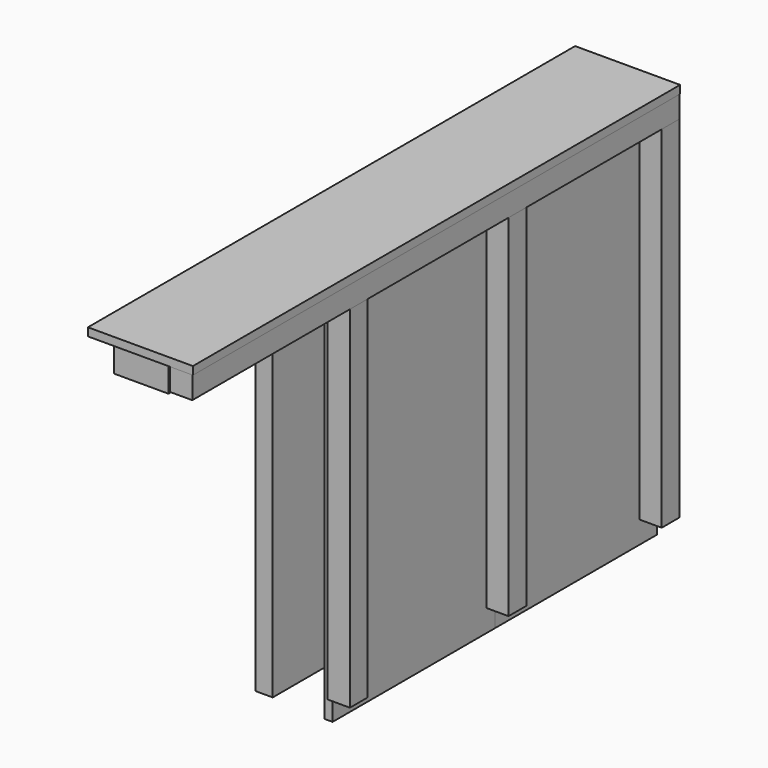
from build123d import *

# Parameters (mm, degrees)
PAD_DEPTH               = 160
SKETCH001_W             = 44
SKETCH001_H             = 24
PAD001_DEPTH            = 480
PAD003_DEPTH            = 6.5
PAD002_DEPTH            = 493
SKETCH004_W             = 6.5
SKETCH004_H             = 320
PAD004_DEPTH            = 164.33
BODY010_PLACEMENT_ANGLE = 180
SKETCH005_W             = 18
SKETCH005_H             = 18
PAD005_DEPTH            = 493
SKETCH006_W             = 18
SKETCH006_H             = 284
PAD006_DEPTH            = 18


with BuildPart() as body:
    # Sketch → Pad (new body)
    with BuildSketch(Plane.XZ):
        Polygon((0, 0), (14, 0), (14, 24), (14, 296), (14, 320), (0, 320), align=None)
    extrude(amount=PAD_DEPTH)


with BuildPart() as body_1:
    # Body placement: moved
    add(body.part.moved(Location((0, 0, -0.5))))


with BuildPart() as body001:
    # Body001 base: copy of Body
    add(body_1.part)


with BuildPart() as body001_1:
    # Clone placement: moved
    add(body001.part.moved(Location((0, 0, 0.5))))


with BuildPart() as body001_2:
    # Body001 placement: moved
    add(body001_1.part.moved(Location((0, 160, -0.5))))


with BuildPart() as body002:
    # Body002 base: copy of Body
    add(body_1.part)


with BuildPart() as body002_1:
    # Clone001 placement: moved
    add(body002.part.moved(Location((0, 0, 0.5))))


with BuildPart() as body002_2:
    # Body002 placement: moved
    add(body002_1.part.moved(Location((0, 320, -0.5))))


with BuildPart() as topedge:
    # Sketch001 → Pad001 (new body)
    with BuildSketch(Plane.XZ):
        with Locations((22, 12)):
            Rectangle(SKETCH001_W, SKETCH001_H)
    extrude(amount=PAD001_DEPTH)


with BuildPart() as topedge_1:
    # Body003 placement: moved
    add(topedge.part.moved(Location((14, 319.5, -0.5))))


with BuildPart() as topedge_2:
    # Clone002 placement: moved
    add(topedge_1.part.moved(Location((0, -486, 296.5))))


with BuildPart() as topedge_3:
    # Body004 placement: moved
    add(topedge_2.part.moved(Location((0, 486, -0.5))))


with BuildPart() as leftside:
    # Sketch003 → Pad003 (new body)
    with BuildSketch(Plane.XZ):
        Polygon((60, 0), (60, 320), (16, 320), (2, 320), (0, 320), (0, 0), (2, 0), (16, 0), align=None)
    extrude(amount=PAD003_DEPTH)


with BuildPart() as leftside_1:
    # Body006 placement: moved
    add(leftside.part.moved(Location((-2, -160.5, -0.5))))


with BuildPart() as leftside_2:
    # Clone003 placement: moved
    add(leftside_1.part.moved(Location((0, 0.5, 0.5))))


with BuildPart() as leftside_3:
    # Body007 placement: moved
    add(leftside_2.part.moved(Location((0, 486, -0.5))))


with BuildPart() as top:
    # Sketch002 → Pad002 (new body)
    with BuildSketch(Plane.XZ):
        Polygon((85, -6.5), (85, 0), (84.5, 0), (66.5, 0), (60, 0), (42, 0), (16, 0), (0, 0), (0, -6.5), (16, -6.5), (42, -6.5), (60, -6.5), (66.5, -6.5), (84.5, -6.5), align=None)
    extrude(amount=PAD002_DEPTH)


with BuildPart() as top_1:
    # Body005 placement: moved
    add(top.part.moved(Location((-2, 326, -0.5))))


with BuildPart() as top_2:
    # Clone004 placement: moved
    add(top_1.part.moved(Location((0, 0, 0.5))))


with BuildPart() as top_3:
    # Body008 placement: moved
    add(top_2.part.moved(Location((0, 0, 326))))


with BuildPart() as body009:
    # Sketch004 → Pad004 (new body)
    with BuildSketch(Plane.XZ):
        with Locations((3.25, 160)):
            Rectangle(SKETCH004_W, SKETCH004_H)
    extrude(amount=PAD004_DEPTH)


with BuildPart() as body009_1:
    # Body009 placement: moved
    add(body009.part.moved(Location((58, -2.5, -0.5))))


with BuildPart() as body010:
    # Body010 base: copy of Body009
    add(body009_1.part)


with BuildPart() as body010_1:
    # Clone005 placement: moved
    add(body010.part.moved(Location((0, -3.7, 0.5))))


with BuildPart() as body010_2:
    # Body010 placement: moved
    add(body010_1.part.moved(Location((122.5, 168, 319.5))).rotate(Axis((122.5, 168, 319.5), (0, -1, 0)), BODY010_PLACEMENT_ANGLE))


with BuildPart() as body011:
    # Body011 base: copy of Body009
    add(body009_1.part)


with BuildPart() as body011_1:
    # Clone006 placement: moved
    add(body011.part.moved(Location((0, -3.5, 0.5))))


with BuildPart() as body011_2:
    # Body011 placement: moved
    add(body011_1.part.moved(Location((0, 332, -0.5))))


with BuildPart() as topbackedge:
    # Sketch005 → Pad005 (new body)
    with BuildSketch(Plane.XZ):
        with Locations((9, 9)):
            Rectangle(SKETCH005_W, SKETCH005_H)
    extrude(amount=PAD005_DEPTH)


with BuildPart() as topbackedge_1:
    # Body012 placement: moved
    add(topbackedge.part.moved(Location((64.5, 326, -0.5))))


with BuildPart() as topbackedge_2:
    # Clone007 placement: moved
    add(topbackedge_1.part.moved(Location((0, 0, 0.5))))


with BuildPart() as topbackedge_3:
    # Body013 placement: moved
    add(topbackedge_2.part.moved(Location((0, 0, 301.5))))


with BuildPart() as rightbackedge:
    # Sketch006 → Pad006 (new body)
    with BuildSketch(Plane.XZ):
        with Locations((9, 142)):
            Rectangle(SKETCH006_W, SKETCH006_H)
    extrude(amount=PAD006_DEPTH)


with BuildPart() as rightbackedge_1:
    # Body014 placement: moved
    add(rightbackedge.part.moved(Location((64.5, -149, 17.5))))


with BuildPart() as leftbackedge:
    # Body015 base: copy of rightBackEdge
    add(rightbackedge_1.part)


with BuildPart() as leftbackedge_1:
    # Clone008 placement: moved
    add(leftbackedge.part.moved(Location((0, 1, 0))))


with BuildPart() as leftbackedge_2:
    # Body015 placement: moved
    add(leftbackedge_1.part.moved(Location((0, 474, 0))))


with BuildPart() as rightmiddlebackedge:
    # Body016 base: copy of rightBackEdge
    add(rightbackedge_1.part)


with BuildPart() as rightmiddlebackedge_1:
    # Clone009 placement: moved
    add(rightmiddlebackedge.part.moved(Location((0, 4.5, 0))))


with BuildPart() as rightmiddlebackedge_2:
    # Body016 placement: moved
    add(rightmiddlebackedge_1.part.moved(Location((0, 155, 0))))


with BuildPart() as leftmiddlebackedge:
    # Body017 base: copy of rightBackEdge
    add(rightbackedge_1.part)


with BuildPart() as leftmiddlebackedge_1:
    # Clone010 placement: moved
    add(leftmiddlebackedge.part.moved(Location((0, 1, 0))))


with BuildPart() as leftmiddlebackedge_2:
    # Body017 placement: moved
    add(leftmiddlebackedge_1.part.moved(Location((0, 319, 0))))


solid = Compound([body001_2.part, body002_2.part, topedge_3.part, leftside_3.part, top_3.part, body010_2.part, body011_2.part, topbackedge_3.part, leftbackedge_2.part, rightmiddlebackedge_2.part, leftmiddlebackedge_2.part])
